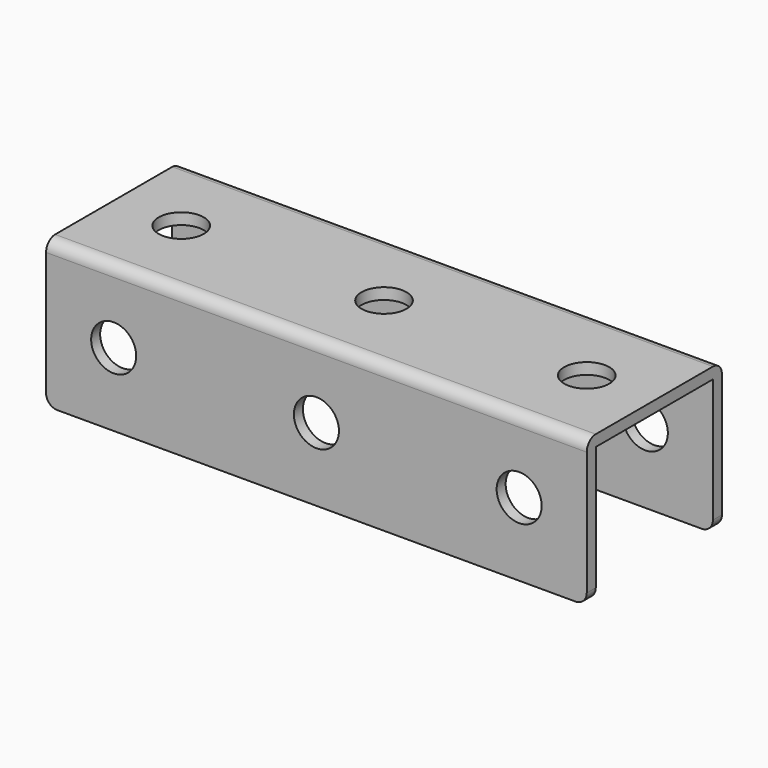
from build123d import *

# Parameters (mm, degrees)
F0_W     = 96
F0_H     = 26
F0_R     = 4
F1_DEPTH = 2
F5_W     = 96
F5_H     = 26
F5_R     = 4
F6_DEPTH = 2
F4_W     = 96
F4_H     = 26
F4_R     = 4
F7_DEPTH = 2
F8_R     = 2


with BuildPart() as f1:
    # F0 (on Top) → F1 (new body)
    with BuildSketch(Plane.XY):
        with Locations((17.3164154523, 0.965568237)):
            Rectangle(F0_W, F0_H)
        with Locations((17.3164154523, 0.965568237)):
            Circle(F0_R, mode=Mode.SUBTRACT)
        with Locations((-18.6835845477, 0.965568237)):
            Circle(F0_R, mode=Mode.SUBTRACT)
        with Locations((53.3164154523, 0.965568237)):
            Circle(F0_R, mode=Mode.SUBTRACT)
    extrude(amount=F1_DEPTH)

    # F5 (on offset) → F6 (join)
    with BuildSketch(Plane.XZ.offset(12.034431763)):
        with Locations((17.3164154523, -11)):
            Rectangle(F5_W, F5_H)
        with Locations((-18.6835845477, -11)):
            Circle(F5_R, mode=Mode.SUBTRACT)
        with Locations((17.3164154523, -11)):
            Circle(F5_R, mode=Mode.SUBTRACT)
        with Locations((53.3164154523, -11)):
            Circle(F5_R, mode=Mode.SUBTRACT)
    extrude(amount=F6_DEPTH)

    # F4 (on offset) → F7 (join)
    with BuildSketch(Plane(origin=(0, 13.965568237, 0), x_dir=(-1, 0, 0), z_dir=(0, 1, 0))):
        with Locations((-17.3164154523, -11)):
            Rectangle(F4_W, F4_H)
        with Locations((-53.3164154523, -11)):
            Circle(F4_R, mode=Mode.SUBTRACT)
        with Locations((-17.3164154523, -11)):
            Circle(F4_R, mode=Mode.SUBTRACT)
        with Locations((18.6835845477, -11)):
            Circle(F4_R, mode=Mode.SUBTRACT)
    extrude(amount=F7_DEPTH)

    # F8
    f8_edges = [f1.edges().sort_by_distance(p)[0] for p in [
        (17.316415, -14.034432, 2),
        (17.316415, 15.965568, 2),
        (65.316415, 14.965568, -24),
        (65.316415, -13.034432, -24),
        (-30.683585, 14.965568, -24),
        (-30.683585, -13.034432, -24),
    ]]
    fillet(f8_edges, radius=F8_R)


solid = f1.part
